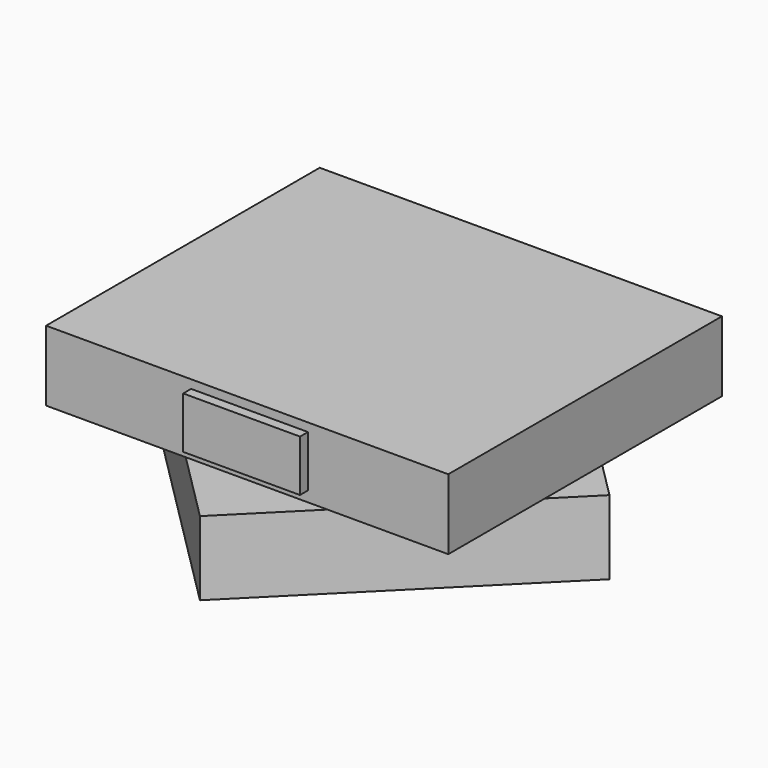
from build123d import *

# Parameters (mm, degrees)
F1_DEPTH = 44.45
F2_W     = 101.6
F2_H     = 17.78
F2_W_2   = 29.5
F2_H_2   = 13
F3_DEPTH = 2.5
F5_W     = 93.507964164
F5_H     = 18.709667027
F6_DEPTH = 40.64


with BuildPart() as f1:
    # F0 (on Front) → F1 (new body, symmetric)
    with BuildSketch(Plane.XZ):
        Polygon((50.7192363203, 9.257473639), (-50.8807636797, 9.257473639), (-50.8807636797, -8.522526361), (0, -8.522526361), (50.7192363203, -8.522526361), align=None)
    extrude(amount=F1_DEPTH, both=True)

    # F2 (on face) → F3 (cut, symmetric)
    with BuildSketch(Plane.XZ.offset(44.45)):
        with Locations((-0.0807636797, 0.367473639)):
            Rectangle(F2_W, F2_H)
        with Locations((0.5088085309, 0.618605656)):
            Rectangle(F2_W_2, F2_H_2, mode=Mode.SUBTRACT)
    extrude(amount=F3_DEPTH, both=True, mode=Mode.SUBTRACT)


with BuildPart() as f6:
    # F5 (on face) → F6 (new body, symmetric)
    with BuildSketch(Plane(origin=(0, 0, 0), x_dir=(0.7071067812, -0.7071067812, 0), z_dir=(-0.7071067812, -0.7071067812, 0))):
        with Locations((-3.2921414822, -18.1370964274)):
            Rectangle(F5_W, F5_H)
    extrude(amount=F6_DEPTH, both=True)


solid = Compound([f1.part, f6.part])
